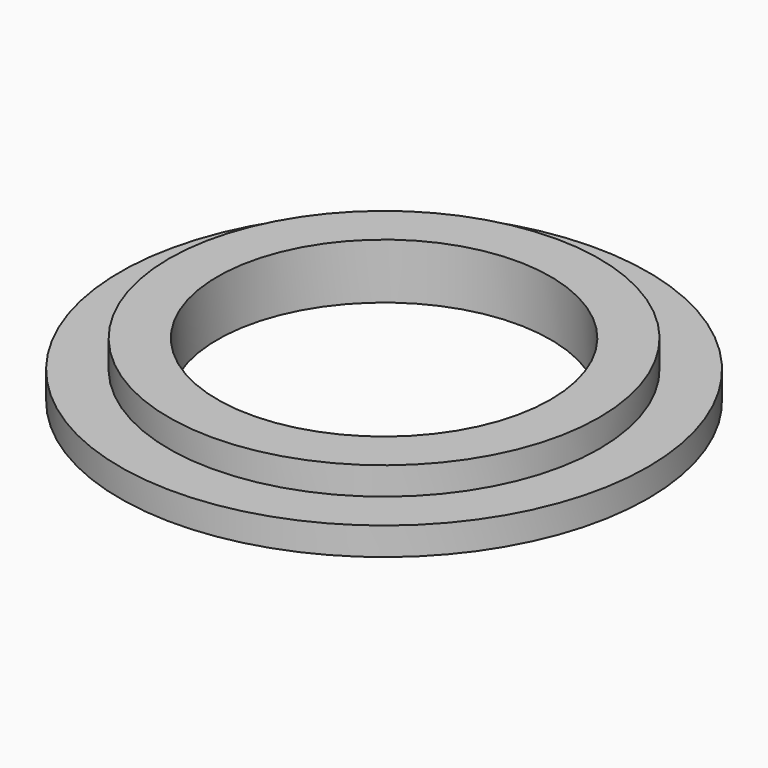
from build123d import *

# Parameters (mm, degrees)
SKETCH_R     = 30.19
PAD_DEPTH    = 3.18
SKETCH001_R  = 24.605
PAD001_DEPTH = 6.34
SKETCH002_R  = 19.05
POCKET_DEPTH = 6.341


with BuildPart() as part:
    # Sketch → Pad (new body)
    with BuildSketch(Plane.XY):
        Circle(SKETCH_R)
    extrude(amount=PAD_DEPTH)

    # Sketch001 → Pad001 (join)
    with BuildSketch(Plane.XY):
        Circle(SKETCH001_R)
    extrude(amount=PAD001_DEPTH)

    # Sketch002 (on Face6 of Pad001) → Pocket (cut, through all)
    with BuildSketch(Plane.XY.offset(6.34)):
        Circle(SKETCH002_R)
    extrude(amount=-POCKET_DEPTH, mode=Mode.SUBTRACT)


solid = part.part
